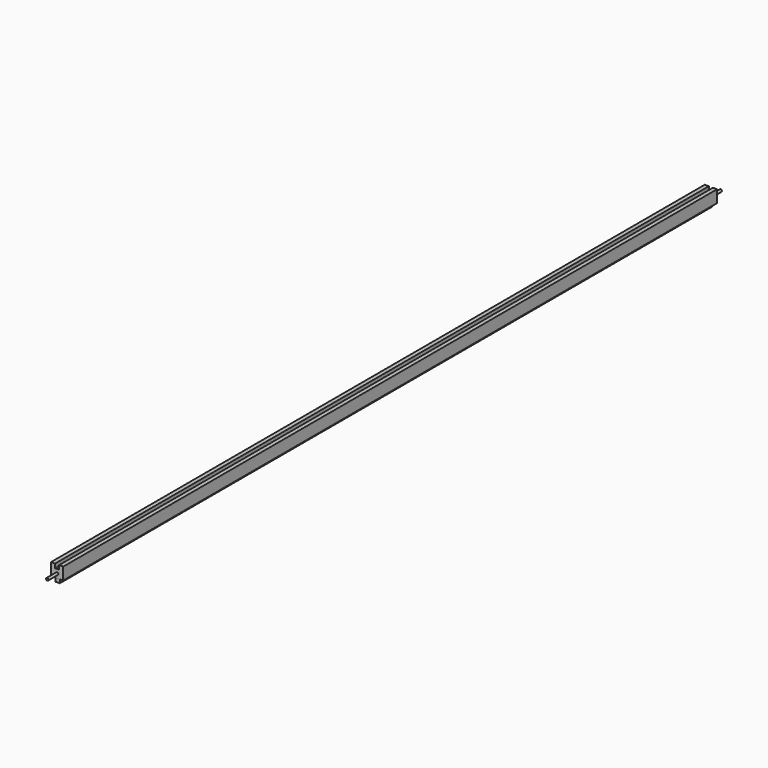
from build123d import *

# Parameters (mm, degrees)
F0_W      = 2000
F0_H      = 20
F1_DEPTH  = 30
F2_W      = 10
F2_H      = 10
F3_DEPTH  = 2000
F4_W      = 10
F4_H      = 10
F5_DEPTH  = 2000
F7_START  = -2
F6_W      = 10
F6_H      = 10
F7_DEPTH  = 1996
F8_R      = 3
F9_DEPTH  = 30
F10_R     = 3
F11_DEPTH = 30


with BuildPart() as f1:
    # F0 (on Right) → F1 (new body)
    with BuildSketch(Plane.YZ):
        Rectangle(F0_W, F0_H)
    extrude(amount=F1_DEPTH)

    # F2 (on face) → F3 (join)
    with BuildSketch(Plane.XZ.offset(1000)):
        with Locations((5, 15)):
            Rectangle(F2_W, F2_H)
    extrude(amount=-F3_DEPTH)

    # F4 (on face) → F5 (join)
    with BuildSketch(Plane.XZ.offset(1000)):
        with Locations((25, 15)):
            Rectangle(F4_W, F4_H)
    extrude(amount=-F5_DEPTH)

    # F6 (on face) → F7 (join)
    with BuildSketch(Plane.XZ.offset(1000).offset(F7_START)):
        with Locations((15, -15)):
            Rectangle(F6_W, F6_H)
    extrude(amount=-F7_DEPTH)

    # F8 (on face) → F9 (join)
    with BuildSketch(Plane.XZ.offset(1000)):
        with Locations((15, 0)):
            Circle(F8_R)
    extrude(amount=F9_DEPTH)

    # F10 (on face) → F11 (join)
    with BuildSketch(Plane(origin=(0, 1000, 0), x_dir=(-1, 0, 0), z_dir=(0, 1, 0))):
        with Locations((-15, 0)):
            Circle(F10_R)
    extrude(amount=F11_DEPTH)


solid = f1.part
